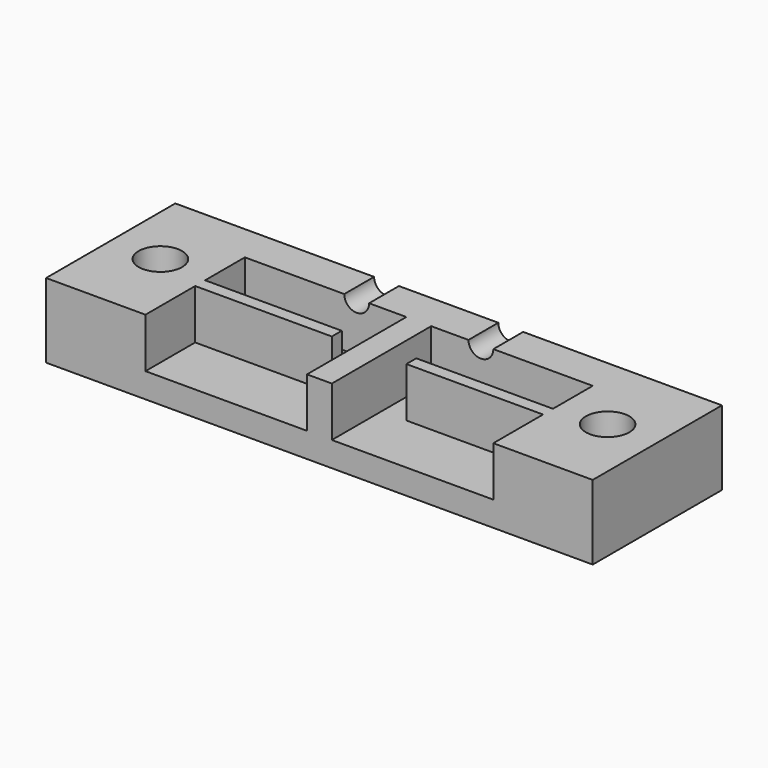
from build123d import *

# Parameters (mm, degrees)
PAD_DEPTH       = 4
SKETCH001_R     = 1
POCKET_DEPTH    = 5
SKETCH002_W     = 44
SKETCH002_H     = 13
PAD001_DEPTH    = 2
SKETCH004_R     = 3.5
POCKET001_DEPTH = 3
SKETCH005_R     = 1.75
POCKET002_DEPTH = 5


with BuildPart() as part:
    # Sketch → Pad (new body)
    with BuildSketch(Plane.XY):
        Polygon((8, 10), (8, 6), (19, 6), (19, 5), (8, 5), (8, 0), (0, 0), (0, 13), (44, 13), (44, 0), (36, 0), (36, 5), (25, 5), (25, 6), (36, 6), (36, 10), (23, 10), (23, 0), (21, 0), (21, 10), align=None)
    extrude(amount=PAD_DEPTH)

    # Sketch001 → Pocket (cut)
    with BuildSketch(Plane(origin=(0, 13, 0), x_dir=(-1, 0, 0), z_dir=(0, 1, 0))):
        with Locations((-27, 4)):
            Circle(SKETCH001_R)
        with Locations((-17, 4)):
            Circle(SKETCH001_R)
    extrude(amount=-POCKET_DEPTH, mode=Mode.SUBTRACT)

    # Sketch002 → Pad001 (new body)
    with BuildSketch(Plane(origin=(0, 0, 0), x_dir=(1, 0, 0), z_dir=(0, 0, -1))):
        with Locations((22, -6.5)):
            Rectangle(SKETCH002_W, SKETCH002_H)
    extrude(amount=PAD001_DEPTH)

    # Sketch004 → Pocket001 (cut)
    with BuildSketch(Plane(origin=(0, 0, -2), x_dir=(1, 0, 0), z_dir=(0, 0, -1))):
        with Locations((40, -6.5)):
            Circle(SKETCH004_R)
        Polygon((0.9, -8.289786), (0.9, -4.710214), (4, -2.920428), (7.1, -4.710214), (7.1, -8.289786), (4, -10.079572), align=None)
    extrude(amount=-POCKET001_DEPTH, mode=Mode.SUBTRACT)

    # Sketch005 → Pocket002 (cut)
    with BuildSketch(Plane.XY.offset(4)):
        with Locations((4, 6.5)):
            Circle(SKETCH005_R)
        with Locations((40, 6.5)):
            Circle(SKETCH005_R)
    extrude(amount=-POCKET002_DEPTH, mode=Mode.SUBTRACT)


solid = part.part
